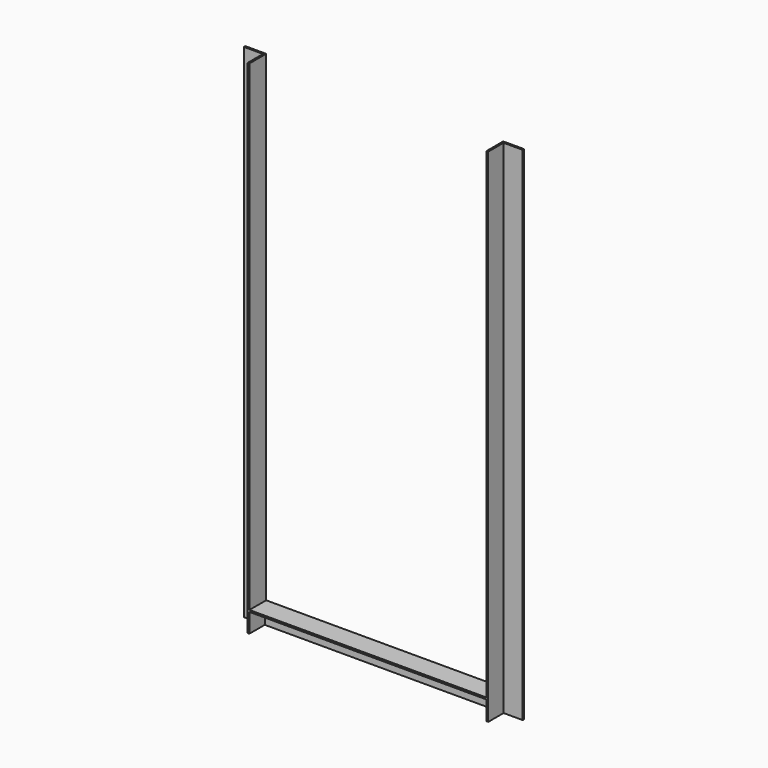
from build123d import *

# Parameters (mm, degrees)
F1_DEPTH = 1828.8
F3_DEPTH = 431.8


with BuildPart() as f1:
    # F0 (on Top) → F1 (new body)
    with BuildSketch(Plane.XY):
        Polygon((0, 0), (0, -76.2), (6.35, -76.2), (6.35, -6.35), (76.2, -6.35), (76.2, 0), align=None)
    extrude(amount=F1_DEPTH)

    # F2 (on face) → F3 (join)
    with BuildSketch(Plane(origin=(0, 0, 0), x_dir=(0, -1, 0), z_dir=(-1, 0, 0))):
        Polygon((0, 76.2), (0, 0), (6.35, 0), (6.35, 69.85), (76.2, 69.85), (76.2, 76.2), align=None)
    extrude(amount=F3_DEPTH)

    # F4: F1 across face


with BuildPart() as f1_1:
    add(f1.part)
    add(f1.part.mirror(Plane(origin=(-431.8, -21.396739, 54.803261), x_dir=(0, -1, 0), z_dir=(-1, 0, 0))))


solid = f1_1.part
